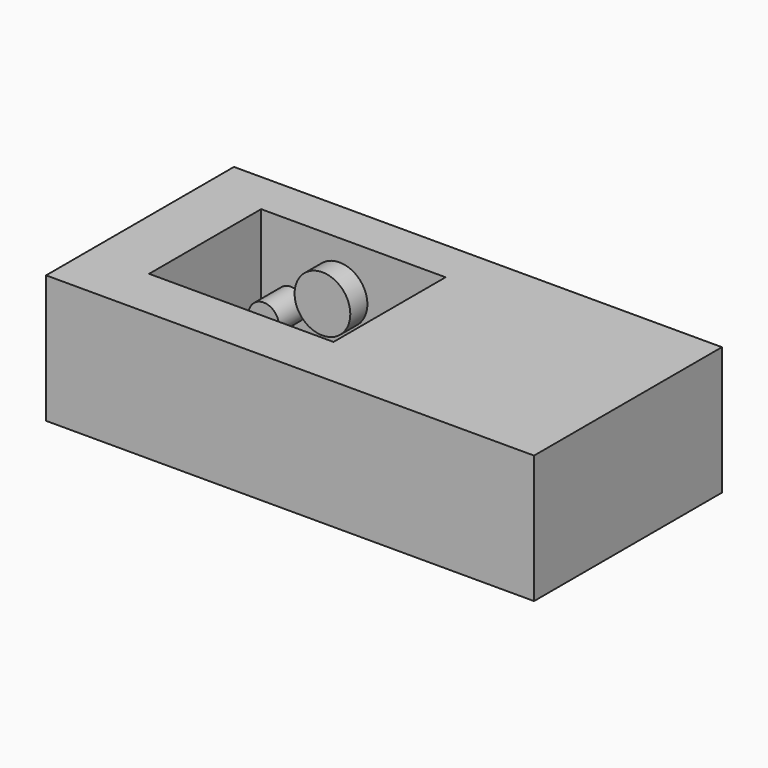
from build123d import *

# Parameters (mm, degrees)
F0_W      = 114.278237
F0_H      = 55
F1_DEPTH  = 30
F2_W      = 43.190174
F2_H      = 32.801846
F3_DEPTH  = 30.001
F4_W      = 7.815801
F4_H      = 9.223189
F5_DEPTH  = 3
F6_W      = 4.690871
F6_H      = 6.195421
F7_DEPTH  = 7
F8_W      = 16.93508
F8_H      = 10.262838
F9_DEPTH  = 5
F10_R     = 3.555014
F11_DEPTH = 8
F12_R     = 6.524901
F13_DEPTH = 5
F14_R     = 2.620041
F15_DEPTH = 10


with BuildPart() as f1:
    # F0 (on Top) → F1 (new body)
    with BuildSketch(Plane.XY):
        with Locations((-57.139118, 27.5)):
            Rectangle(F0_W, F0_H)
    extrude(amount=F1_DEPTH)

    # F2 (on face) → F3 (cut, through all)
    with BuildSketch(Plane.XY.offset(30)):
        with Locations((-78.348886, 28.64116)):
            Rectangle(F2_W, F2_H)
    extrude(amount=-F3_DEPTH, mode=Mode.SUBTRACT)

    # F4 (on face) → F5 (join)
    with BuildSketch(Plane(origin=(0, 12.240237, 0), x_dir=(-1, 0, 0), z_dir=(0, 1, 0))):
        with Locations((89.257304, 9.994802)):
            Rectangle(F4_W, F4_H)
    extrude(amount=F5_DEPTH)

    # F6 (on face) → F7 (join)
    with BuildSketch(Plane(origin=(0, 12.240237, 0), x_dir=(-1, 0, 0), z_dir=(0, 1, 0))):
        with Locations((74.541517, 22.166014)):
            Rectangle(F6_W, F6_H)
    extrude(amount=F7_DEPTH)

    # F8 (on face) → F9 (join)
    with BuildSketch(Plane(origin=(0, 12.240237, 0), x_dir=(-1, 0, 0), z_dir=(0, 1, 0))):
        with Locations((69.395147, 9.889492)):
            Rectangle(F8_W, F8_H)
    extrude(amount=F9_DEPTH)

    # F10 (on face) → F11 (join)
    with BuildSketch(Plane.XZ.offset(-45.042083)):
        with Locations((-92.950813, 12.721915)):
            Circle(F10_R)
    extrude(amount=F11_DEPTH)

    # F12 (on face) → F13 (join)
    with BuildSketch(Plane.XZ.offset(-45.042083)):
        with Locations((-81.588104, 18.474752)):
            Circle(F12_R)
    extrude(amount=F13_DEPTH)

    # F14 (on face) → F15 (join)
    with BuildSketch(Plane.XZ.offset(-45.042083)):
        with Locations((-67.019306, 5.002084)):
            Circle(F14_R)
    extrude(amount=F15_DEPTH)


solid = f1.part
